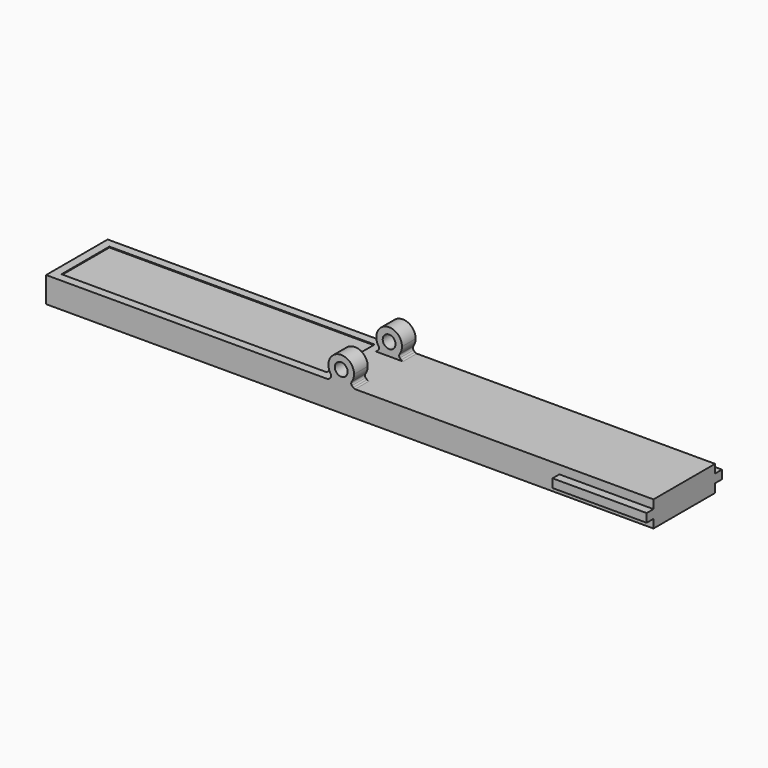
from build123d import *

# Parameters (mm, degrees)
F0_W          = 71
F0_H          = 9
F0_W_2        = 31
F0_H_2        = 7
F1_DEPTH      = 3
F3_R          = 0.75
F4_DEPTH      = 2
F5_R          = 0.3
F7_DEPTH      = 1
F7_DEPTH_BACK = 10
F8_DEPTH      = 0.5
F9_DEPTH      = 0.5
F10_DEPTH     = 0.1


with BuildPart() as f1:
    # F0 (on Top) → F1 (new body)
    with BuildSketch(Plane.XY):
        with Locations((1, 0)):
            Rectangle(F0_W, F0_H)
        with Locations((-18, 0)):
            Rectangle(F0_W_2, F0_H_2, mode=Mode.SUBTRACT)
        with Locations((-18, 0)):
            Rectangle(F0_W_2, F0_H_2)
    extrude(amount=-F1_DEPTH)

    # F3 (on offset) → F4 (join)
    with BuildSketch(Plane.XZ.offset(4.5)):
        with BuildLine():
            ThreePointArc((1.06066, 0.43934), (1.385819, 0.925975), (1.5, 1.5))
            ThreePointArc((1.5, 1.5), (-0.574025, 2.885819), (-1.06066, 0.43934))
            ThreePointArc((-1.06066, 0.43934), (-0.574025, 0.114181), (0, 0))
            ThreePointArc((0, 0), (0.574025, 0.114181), (1.06066, 0.43934))
        make_face()
        with Locations((0, 1.5)):
            Circle(F3_R, mode=Mode.SUBTRACT)
        with BuildLine():
            ThreePointArc((0, 0), (-0.574025, 0.114181), (-1.06066, 0.43934))
            Line((-1.06066, 0.43934), (-1.5, 0))
            Line((-1.5, 0), (0, 0))
        make_face()
        with BuildLine():
            Line((1.5, 0), (1.06066, 0.43934))
            ThreePointArc((1.06066, 0.43934), (0.574025, 0.114181), (0, 0))
            Line((0, 0), (1.5, 0))
        make_face()
    extrude(amount=-F4_DEPTH)

    # F5
    f5_edges = [f1.edges().sort_by_distance(p)[0] for p in [
        (1.06066, -3.5, 0.43934),
        (-1.06066, -3.5, 0.43934),
        (-1.5, -3.5, 0),
        (1.5, -3.5, 0),
    ]]
    fillet(f5_edges, radius=F5_R)

    # F6: F1 across plane


with BuildPart() as f1_1:
    add(f1.part)
    add(f1.part.mirror(Plane.XZ))

    # F3 (on offset) → F7 (join, two sides)
    with BuildSketch(Plane.XZ.offset(4.5)) as f7_sk:
        Polygon((36.5, -2), (36.5, -1), (35.5, -1), (25.5, -1), (25.5, -2), (35.5, -2), align=None)
    extrude(amount=F7_DEPTH)
    extrude(f7_sk.sketch, amount=-F7_DEPTH_BACK)

    # F0 (on Top) → F8 (cut)
    with BuildSketch(Plane.XY):
        with Locations((-18, 0)):
            Rectangle(F0_W_2, F0_H_2)
    extrude(amount=-F8_DEPTH, mode=Mode.SUBTRACT)


with BuildPart() as f9:
    # F0 (on Top) → F9 (new body)
    with BuildSketch(Plane.XY):
        with Locations((-18, 0)):
            Rectangle(F0_W_2, F0_H_2)
    extrude(amount=-F9_DEPTH)

    # F0 (on Top) → F10 (cut)
    with BuildSketch(Plane.XY):
        with Locations((-18, 0)):
            Rectangle(F0_W_2, F0_H_2)
    extrude(amount=-F10_DEPTH, mode=Mode.SUBTRACT)


solid = Compound([f1_1.part, f9.part])
